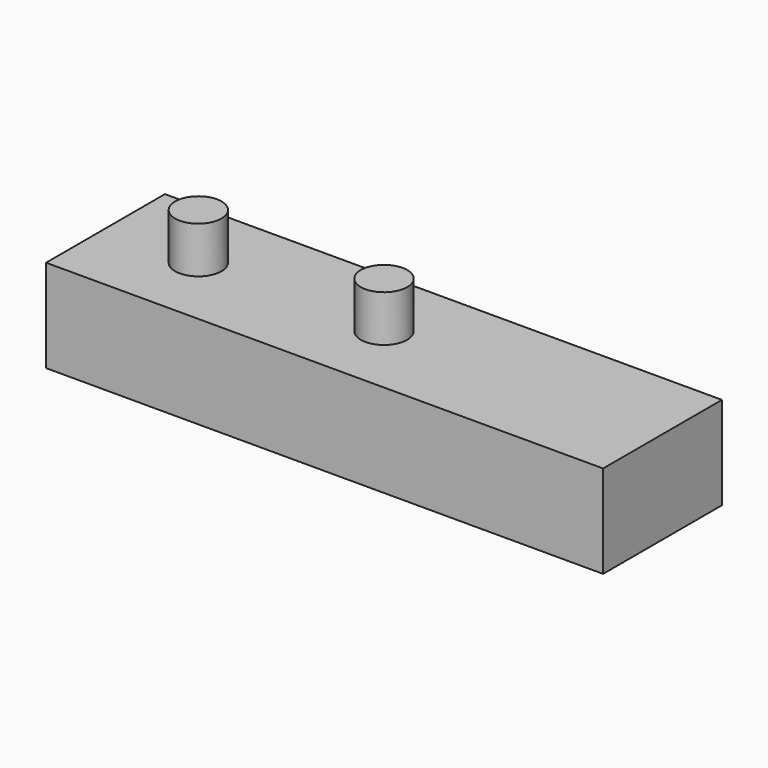
from build123d import *

# Parameters (mm, degrees)
F0_W     = 60
F0_H     = 16
F1_DEPTH = 10
F2_R     = 2.5
F3_DEPTH = 5
F4_DEPTH = 5


with BuildPart() as f1:
    # F0 (on Top) → F1 (new body)
    with BuildSketch(Plane.XY):
        Rectangle(F0_W, F0_H)
    extrude(amount=F1_DEPTH)

    # F2 (on face) → F3 (join)
    with BuildSketch(Plane.XY.offset(10)):
        Circle(F2_R)
    extrude(amount=F3_DEPTH)

    # F2 (on face) → F4 (join)
    with BuildSketch(Plane.XY.offset(10)):
        with Locations((-20, 0)):
            Circle(F2_R)
        Circle(F2_R)
    extrude(amount=F4_DEPTH)


solid = f1.part
